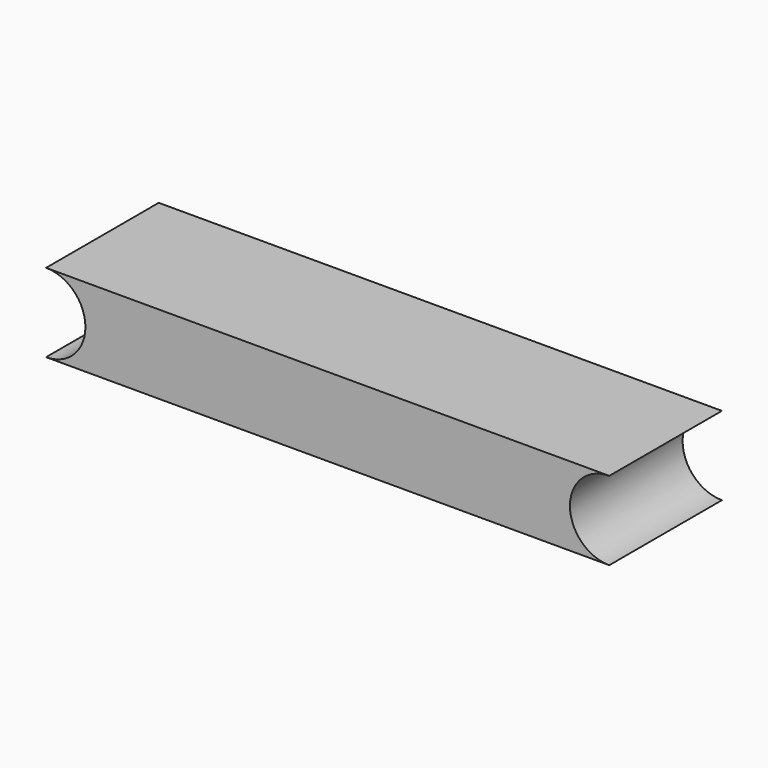
from build123d import *

# Parameters (mm, degrees)
F1_DEPTH = 25


with BuildPart() as f1:
    # F0 (on Front) → F1 (new body)
    with BuildSketch(Plane.XZ):
        with BuildLine():
            ThreePointArc((6.982545, 6.982545), (4.937405, 2.04514), (0, 0))
            Line((0, 0), (100, 0))
            ThreePointArc((100, 0), (93.017455, 6.982545), (100, 13.965091))
            Line((100, 13.965091), (0, 13.965091))
            ThreePointArc((0, 13.965091), (4.937405, 11.919951), (6.982545, 6.982545))
        make_face()
    extrude(amount=F1_DEPTH)


solid = f1.part
